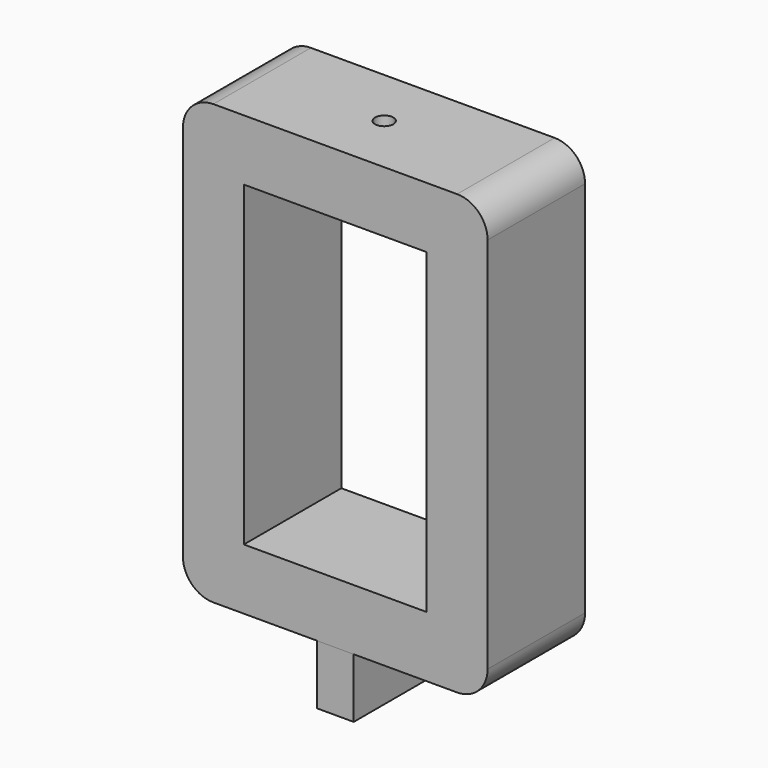
from build123d import *

# Parameters (mm, degrees)
CYLINDER001_R         = 1.5
CYLINDER001_DEPTH     = 10
SKETCH002_W           = 15
SKETCH002_H           = 26
PAD_DEPTH             = 10
CLONE_SCALE_SCALE     = 2
CLONE_PLACEMENT_ANGLE = 90
BOX_W                 = 6
BOX_H                 = 20
BOX_DEPTH             = 10


with BuildPart() as obj1:
    # Cylinder001 → Cylinder001 (new body)
    with BuildSketch(Plane.XY.offset(114)):
        Circle(CYLINDER001_R)
    extrude(amount=CYLINDER001_DEPTH)


with BuildPart() as nul:
    # Sketch002 → Pad (new body)
    with BuildSketch(Plane.XY.offset(11.4)):
        with BuildLine():
            Line((-10, -18), (10, -18))
            ThreePointArc((12.5, -20.5), (11.767767, -18.732233), (10, -18))
            Line((12.5, -20.5), (12.5, -51.5))
            ThreePointArc((10, -54), (11.767767, -53.267767), (12.5, -51.5))
            Line((10, -54), (-10, -54))
            ThreePointArc((-12.5, -51.5), (-11.767767, -53.267767), (-10, -54))
            Line((-12.5, -51.5), (-12.5, -20.5))
            ThreePointArc((-10, -18), (-11.767767, -18.732233), (-12.5, -20.5))
        make_face()
        with Locations((0, -36)):
            Rectangle(SKETCH002_W, SKETCH002_H, mode=Mode.SUBTRACT)
    extrude(amount=PAD_DEPTH)


with BuildPart() as nul_1:
    # Clone scale: moved
    add(nul.part.scale(CLONE_SCALE_SCALE))


with BuildPart() as nul_2:
    # Clone placement: moved
    add(nul_1.part.moved(Location((0, 32.76, 157.8))).rotate(Axis((0, 32.76, 157.8), (1, 0, 0)), CLONE_PLACEMENT_ANGLE))


with BuildPart() as obj2:
    # Box → Box (new body)
    with BuildSketch(Plane(origin=(-3, -10, 40), x_dir=(1, 0, 0), z_dir=(0, 0, 1))):
        with Locations((3, 10)):
            Rectangle(BOX_W, BOX_H)
    extrude(amount=BOX_DEPTH)

    # Fusion001: union Nul
    add(nul_2.part)

    # Cut001: cut obj1
    add(obj1.part, mode=Mode.SUBTRACT)


solid = obj2.part
